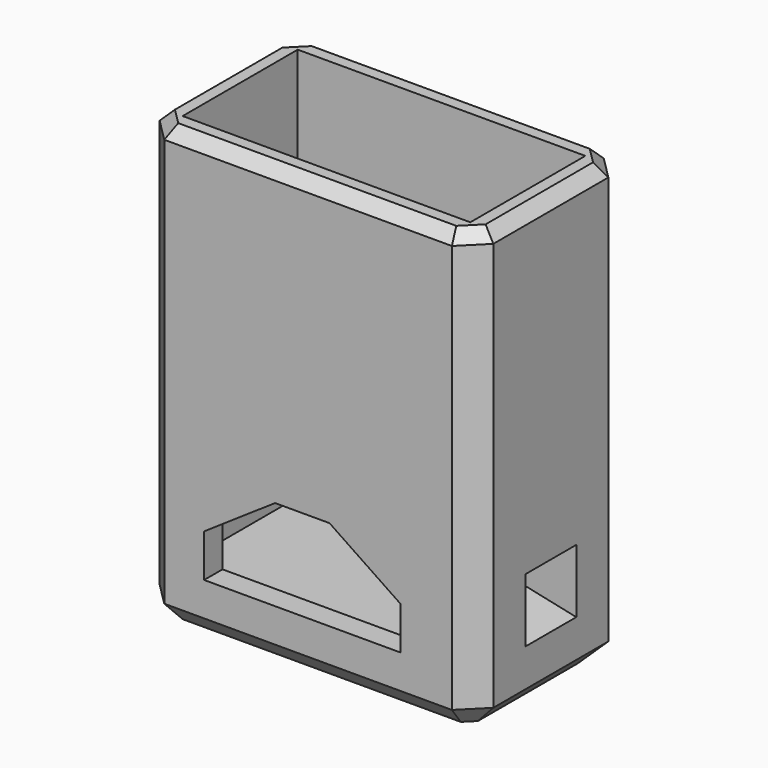
from build123d import *

# Parameters (mm, degrees)
F0_W      = 29
F0_H      = 16.5
F1_DEPTH  = 38.5
F2_T      = -2
F3_DEPTH  = 2.25
F4_SIZE   = 2
F5_SIZE   = 2
F6_SIZE   = 1
F8_DEPTH  = 16.501
F9_W      = 7.54
F9_H      = 7.25
F9_R      = 1.1
F10_DEPTH = 6.35
F11_W     = 5.538
F11_H     = 5.533
F13_W     = 5.538
F13_H     = 4.583


with BuildPart() as f1:
    # F0 (on Top) → F1 (new body)
    with BuildSketch(Plane.XY):
        with Locations((14.5, 8.25)):
            Rectangle(F0_W, F0_H)
    extrude(amount=F1_DEPTH)

    # F2
    f2_openings = [f1.faces().sort_by_distance(p)[0] for p in [
        (14.5, 8.25, 38.5),
    ]]
    offset(amount=F2_T, openings=f2_openings)

    # F3 (add): a face of the model
    f3_faces = [f1.faces().sort_by_distance(p)[0] for p in [
        (14.5, 8.25, 2),
    ]]
    extrude(f3_faces, amount=F3_DEPTH)

    # F4
    f4_edges = [f1.edges().sort_by_distance(p)[0] for p in [
        (29, 0, 19.25),
        (29, 16.5, 19.25),
    ]]
    chamfer(f4_edges, length=F4_SIZE)

    # F5
    f5_edges = [f1.edges().sort_by_distance(p)[0] for p in [
        (0, 16.5, 19.25),
        (0, 0, 19.25),
        (13.5, 16.5, 0),
        (13.5, 0, 0),
        (28, 1, 0),
        (0, 8.25, 0),
        (29, 8.25, 0),
        (28, 15.5, 0),
    ]]
    chamfer(f5_edges, length=F5_SIZE)

    # F6
    f6_edges = [f1.edges().sort_by_distance(p)[0] for p in [
        (0, 8.25, 38.5),
        (1, 1, 38.5),
        (14.5, 0, 38.5),
        (1, 15.5, 38.5),
        (14.5, 16.5, 38.5),
        (28, 15.5, 38.5),
        (29, 8.25, 38.5),
        (28, 1, 38.5),
    ]]
    chamfer(f6_edges, length=F6_SIZE)

    # F7 (on face) → F8 (cut, through all)
    with BuildSketch(Plane(origin=(0, 16.5, 0), x_dir=(-1, 0, 0), z_dir=(0, 1, 0))):
        Polygon((-22.536, 8.664), (-22.536, 4.94), (-5.464, 4.94), (-5.464, 8.664), (-11.635, 12.834), (-16.365, 12.834), align=None)
    extrude(amount=-F8_DEPTH, mode=Mode.SUBTRACT)

    # F9 (on face) → F10 (join)
    with BuildSketch(Plane.YZ.offset(29)):
        with Locations((8.25, 7.875)):
            Rectangle(F9_W, F9_H)
        with Locations((8.25, 9)):
            Circle(F9_R, mode=Mode.SUBTRACT)
    extrude(amount=-F10_DEPTH)

    # F11 (on face) → F14 section 0
    with BuildSketch(Plane.YZ.offset(29)):
        with Locations((8.25, 8.0385)):
            Rectangle(F11_W, F11_H)
    # F13 (on offset) → F14 section 1
    with BuildSketch(Plane.YZ.offset(24.55)):
        with Locations((8.25, 8.5135)):
            Rectangle(F13_W, F13_H)
    loft(mode=Mode.SUBTRACT)


solid = f1.part
